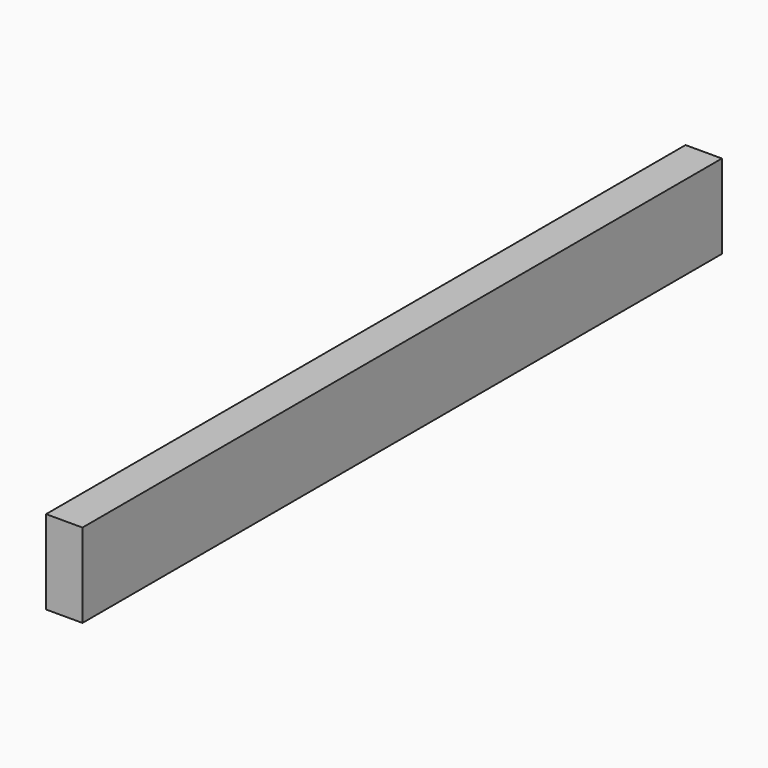
from build123d import *

# Parameters (mm, degrees)
BOX_W     = 26
BOX_H     = 571
BOX_DEPTH = 60


with BuildPart() as part:
    # Box → Box (new body)
    with BuildSketch(Plane.XY):
        with Locations((13, 285.5)):
            Rectangle(BOX_W, BOX_H)
    extrude(amount=BOX_DEPTH)


solid = part.part
